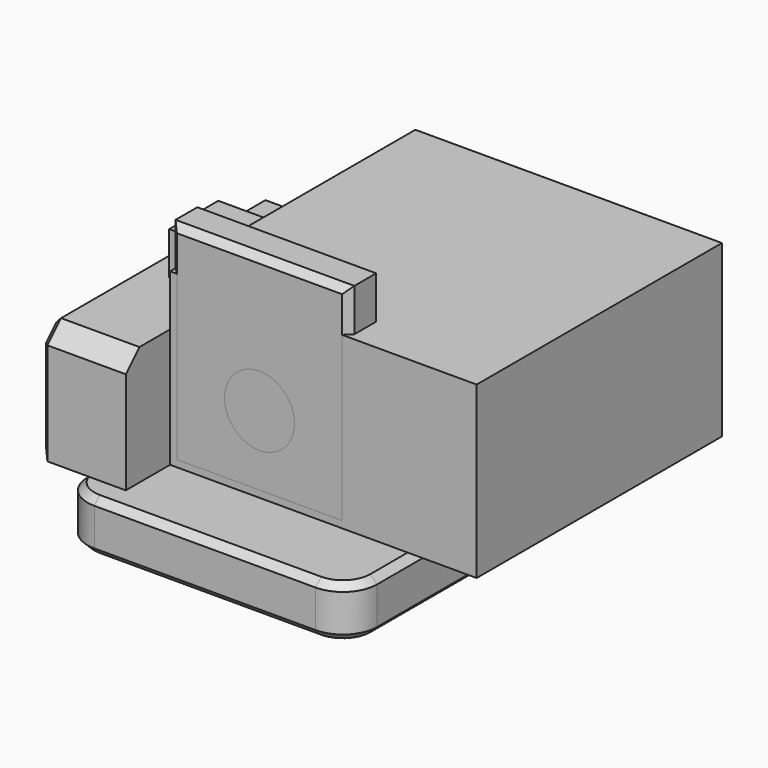
from build123d import *

# Parameters (mm, degrees)
SKETCH006_W     = 10
SKETCH006_H     = 10.5
PAD003_DEPTH    = 3
SKETCH007_W     = 5
SKETCH007_H     = 17
PAD004_DEPTH    = 7
SKETCH008_R     = 1.75
POCKET005_DEPTH = 3.001
SKETCH009_W     = 8.5
SKETCH009_H     = 1.5
POCKET006_DEPTH = 15.001
SKETCH010_W     = 8.5
SKETCH010_H     = 1.5
PAD005_DEPTH    = 3
CHAMFER_SIZE    = 1
CHAMFER001_SIZE = 0.4
BOX_W           = 18
BOX_H           = 18
BOX_DEPTH       = 10
PAD_DEPTH       = 9
SKETCH011_R     = 1.65
POCKET_DEPTH    = 3.501
SKETCH012_W     = 10.5
SKETCH012_H     = 2
PAD006_DEPTH    = 3.5
CHAMFER002_SIZE = 0.4
SKETCH013_W     = 17
SKETCH013_H     = 12
PAD007_DEPTH    = 13
SKETCH014_W     = 17
SKETCH014_H     = 10
POCKET007_DEPTH = 8
SKETCH015_R     = 2
POCKET008_DEPTH = 12.001
FILLET_R        = 2
CHAMFER003_SIZE = 0.4
SKETCH016_W     = 8.5
SKETCH016_H     = 3
POCKET009_DEPTH = 13.001
CHAMFER004_SIZE = 1


with BuildPart() as body001:
    # Sketch006 → Pad003 (new body)
    with BuildSketch(Plane.XY):
        with Locations((5, 5.25)):
            Rectangle(SKETCH006_W, SKETCH006_H)
    extrude(amount=PAD003_DEPTH)

    # Sketch007 (on Face5 of Pad003) → Pad004 (join)
    with BuildSketch(Plane(origin=(0, 0, 0), x_dir=(1, 0, 0), z_dir=(0, 0, -1))):
        with Locations((-2.5, -5.25)):
            Rectangle(SKETCH007_W, SKETCH007_H)
    extrude(amount=-PAD004_DEPTH)

    # Sketch008 (on Face7 of Pad004) → Pocket005 (cut, through all)
    with BuildSketch(Plane.XY.offset(3)):
        with Locations((5, 5.25)):
            Circle(SKETCH008_R)
    extrude(amount=-POCKET005_DEPTH, mode=Mode.SUBTRACT)

    # Sketch009 (on Face11 of Pocket005) → Pocket006 (cut, through all)
    with BuildSketch(Plane.YZ.offset(10)):
        with Locations((5.25, 0.75)):
            Rectangle(SKETCH009_W, SKETCH009_H)
    extrude(amount=-POCKET006_DEPTH, mode=Mode.SUBTRACT)

    # Sketch010 (on Face16 of Pocket006) → Pad005 (join)
    with BuildSketch(Plane.YZ.offset(10)):
        with Locations((5.25, 2.25)):
            Rectangle(SKETCH010_W, SKETCH010_H)
    extrude(amount=PAD005_DEPTH)

    # Chamfer
    chamfer_edges = [body001.edges().sort_by_distance(p)[0] for p in [
        (-2.5, 13.75, 7),
        (-2.5, -3.25, 7),
    ]]
    chamfer(chamfer_edges, length=CHAMFER_SIZE)

    # Chamfer001
    chamfer001_edges = [body001.edges().sort_by_distance(p)[0] for p in [
        (-5, 13.75, 3),
        (-5, 13.25, 6.5),
        (-5, 11.625, 0),
        (-5, 5.25, 7),
        (-5, 9.5, 0.75),
        (-5, -2.75, 6.5),
        (-5, 5.25, 1.5),
        (-5, -3.25, 3),
        (-5, 1, 0.75),
        (-5, -1.125, 0),
    ]]
    chamfer(chamfer001_edges, length=CHAMFER001_SIZE)


with BuildPart() as cube:
    # Box → Box (new body)
    with BuildSketch(Plane.XY):
        with Locations((9, 9)):
            Rectangle(BOX_W, BOX_H)
    extrude(amount=BOX_DEPTH)


with BuildPart() as inner:
    # Sketch → Pad (new body)
    with BuildSketch(Plane.XY):
        Polygon((0, 3.5), (0, 0), (10.5, 0), (10.5, 3.5), (9.5, 3.5), (9.5, 2), (1, 2), (1, 3.5), align=None)
    extrude(amount=PAD_DEPTH)

    # Sketch011 (on Face2 of Pad) → Pocket (cut, through all)
    with BuildSketch(Plane.XZ):
        with Locations((5.25, 4.5)):
            Circle(SKETCH011_R)
    extrude(amount=-POCKET_DEPTH, mode=Mode.SUBTRACT)

    # Sketch012 (on Face5 of Pocket) → Pad006 (join)
    with BuildSketch(Plane.XY.offset(9)):
        with Locations((5.25, 1)):
            Rectangle(SKETCH012_W, SKETCH012_H)
    extrude(amount=PAD006_DEPTH)

    # Chamfer002
    chamfer002_edges = [inner.edges().sort_by_distance(p)[0] for p in [
        (0, 0, 6.25),
        (5.25, 0, 0),
        (10.5, 0, 6.25),
        (5.25, 0, 12.5),
        (3.6, 0, 4.5),
    ]]
    chamfer(chamfer002_edges, length=CHAMFER002_SIZE)


with BuildPart() as body002:
    # Sketch013 → Pad007 (new body)
    with BuildSketch(Plane.XY):
        with Locations((8.5, 6)):
            Rectangle(SKETCH013_W, SKETCH013_H)
    extrude(amount=PAD007_DEPTH)

    # Sketch014 (on Face1 of Pad007) → Pocket007 (cut)
    with BuildSketch(Plane.XZ):
        with Locations((8.5, 8)):
            Rectangle(SKETCH014_W, SKETCH014_H)
    extrude(amount=-POCKET007_DEPTH, mode=Mode.SUBTRACT)

    # Sketch015 (on Face6 of Pocket007) → Pocket008 (cut, through all)
    with BuildSketch(Plane(origin=(0, 12, 0), x_dir=(-1, 0, 0), z_dir=(0, 1, 0))):
        with Locations((-8.5, 8)):
            Circle(SKETCH015_R)
    extrude(amount=-POCKET008_DEPTH, mode=Mode.SUBTRACT)

    # Fillet
    fillet_edges = [body002.edges().sort_by_distance(p)[0] for p in [
        (0, 0, 1.5),
        (17, 0, 1.5),
    ]]
    fillet(fillet_edges, radius=FILLET_R)

    # Chamfer003
    chamfer003_edges = [body002.edges().sort_by_distance(p)[0] for p in [
        (17, 12, 6.5),
        (8.5, 12, 0),
        (8.5, 12, 13),
        (0, 12, 6.5),
        (10.5, 12, 8),
        (8.5, 0, 0),
        (0.585786, 0.585786, 0),
        (16.414214, 0.585786, 0),
        (0, 7, 0),
        (17, 7, 0),
        (17, 5, 3),
        (16.414214, 0.585786, 3),
        (8.5, 0, 3),
        (0, 5, 3),
        (0.585786, 0.585786, 3),
    ]]
    chamfer(chamfer003_edges, length=CHAMFER003_SIZE)

    # Sketch016 (on Face9 of Chamfer003) → Pocket009 (cut, through all)
    with BuildSketch(Plane(origin=(0, 0, 0), x_dir=(1, 0, 0), z_dir=(0, 0, -1))):
        with Locations((8.5, -6.5)):
            Rectangle(SKETCH016_W, SKETCH016_H)
    extrude(amount=-POCKET009_DEPTH, mode=Mode.SUBTRACT)

    # Chamfer004
    chamfer004_edges = [body002.edges().sort_by_distance(p)[0] for p in [
        (4.25, 6.5, 0),
        (4.25, 6.5, 3),
        (12.75, 6.5, 3),
        (12.75, 6.5, 0),
    ]]
    chamfer(chamfer004_edges, length=CHAMFER004_SIZE)


with BuildPart() as body002_1:
    # Body002 placement: moved
    add(body002.part.moved(Location((-3.25, -4, -3.5))))


solid = Compound([body001.part, cube.part, inner.part, body002_1.part])
